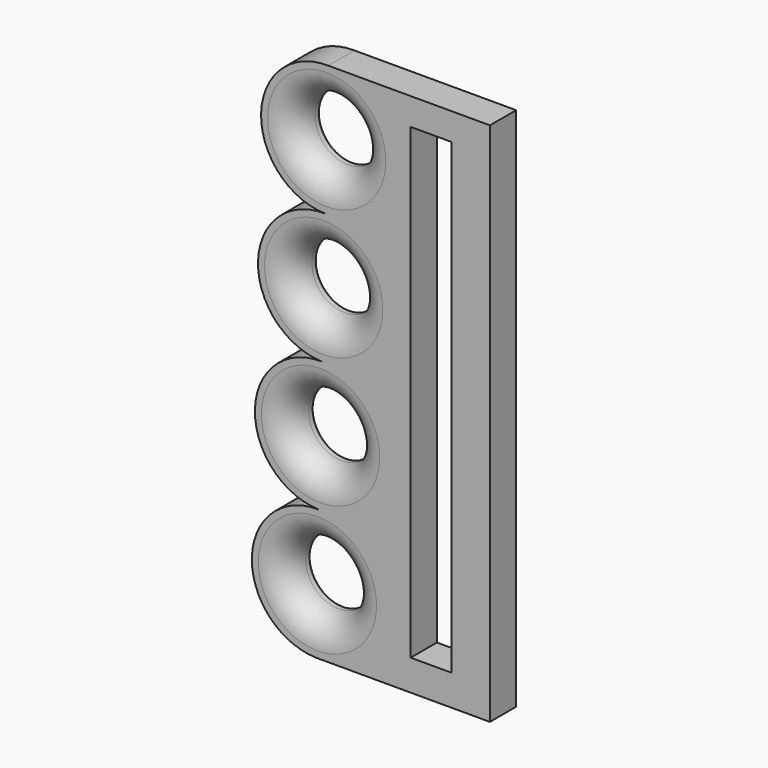
from build123d import *

# Parameters (mm, degrees)
F0_R     = 6.35
F0_W     = 7.923927
F0_H     = 90.392672
F1_DEPTH = 6.35
F2_R     = 5.08
F3_R     = 0.508


with BuildPart() as f1:
    # F0 (on Front) → F1 (new body)
    with BuildSketch(Plane.XZ):
        with BuildLine():
            Line((14.28197, -45.691067), (14.28197, 55.908933))
            Line((14.28197, 55.908933), (-16.982975, 55.908933))
            Line((-16.982975, 55.908933), (-16.983058, 55.905428))
            ThreePointArc((-16.983058, 55.905428), (-29.97791, 43.507291), (-17.579773, 30.512438))
            Line((-17.579773, 30.512438), (-17.579938, 30.505428))
            ThreePointArc((-17.579938, 30.505428), (-30.57479, 18.107291), (-18.176653, 5.112438))
            Line((-18.176653, 5.112438), (-18.176817, 5.105428))
            ThreePointArc((-18.176817, 5.105428), (-31.17167, -7.292709), (-18.773533, -20.287562))
            Line((-18.773533, -20.287562), (-18.773697, -20.294572))
            ThreePointArc((-18.773697, -20.294572), (-31.76855, -32.692709), (-19.370412, -45.687562))
            ThreePointArc((-19.370412, -45.687562), (-19.221244, -45.690191), (-19.072055, -45.691067))
            Line((-19.072055, -45.691067), (14.28197, -45.691067))
        make_face()
        with Locations((-19.072055, -32.991067)):
            Circle(F0_R, mode=Mode.SUBTRACT)
        with Locations((-18.475175, -7.591067)):
            Circle(F0_R, mode=Mode.SUBTRACT)
        with Locations((-17.878295, 17.808933)):
            Circle(F0_R, mode=Mode.SUBTRACT)
        with Locations((-17.281415, 43.208933)):
            Circle(F0_R, mode=Mode.SUBTRACT)
        with Locations((2.916695, 5.464673)):
            Rectangle(F0_W, F0_H, mode=Mode.SUBTRACT)
        with BuildLine():
            Line((-19.370495, -45.691067), (-19.072055, -45.691067))
            ThreePointArc((-19.072055, -45.691067), (-19.221244, -45.690191), (-19.370412, -45.687562))
            Line((-19.370412, -45.687562), (-19.370495, -45.691067))
        make_face()
    extrude(amount=F1_DEPTH)

    # F2
    f2_edges = [f1.edges().sort_by_distance(p)[0] for p in [
        (-23.631415, -6.35, 43.208933),
        (-24.228295, -6.35, 17.808933),
        (-24.825175, -6.35, -7.591067),
        (-25.422055, -6.35, -32.991067),
    ]]
    fillet(f2_edges, radius=F2_R)

    # F3
    f3_edges = [f1.edges().sort_by_distance(p)[0] for p in [
        (-25.422055, 0, -32.991067),
        (-24.825175, 0, -7.591067),
        (-24.228295, 0, 17.808933),
        (-23.631415, 0, 43.208933),
    ]]
    fillet(f3_edges, radius=F3_R)


solid = f1.part
